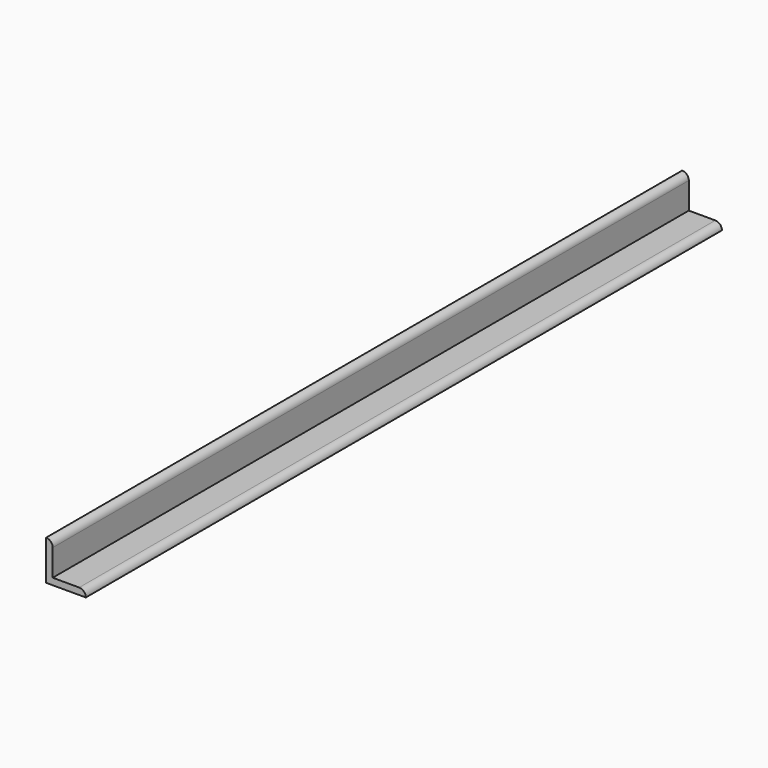
from build123d import *

# Parameters (mm, degrees)
F1_DEPTH = 190.5


with BuildPart() as f1:
    # F0 (on Front) → F1 (new body, symmetric)
    with BuildSketch(Plane.XZ):
        with BuildLine():
            ThreePointArc((3.175, 15.875), (2.245064, 18.120064), (0, 19.05))
            Line((0, 19.05), (0, 0))
            Line((0, 0), (19.05, 0))
            ThreePointArc((19.05, 0), (18.120064, 2.245064), (15.875, 3.175))
            Line((15.875, 3.175), (3.175, 3.175))
            Line((3.175, 3.175), (3.175, 15.875))
        make_face()
    extrude(amount=F1_DEPTH, both=True)


solid = f1.part
